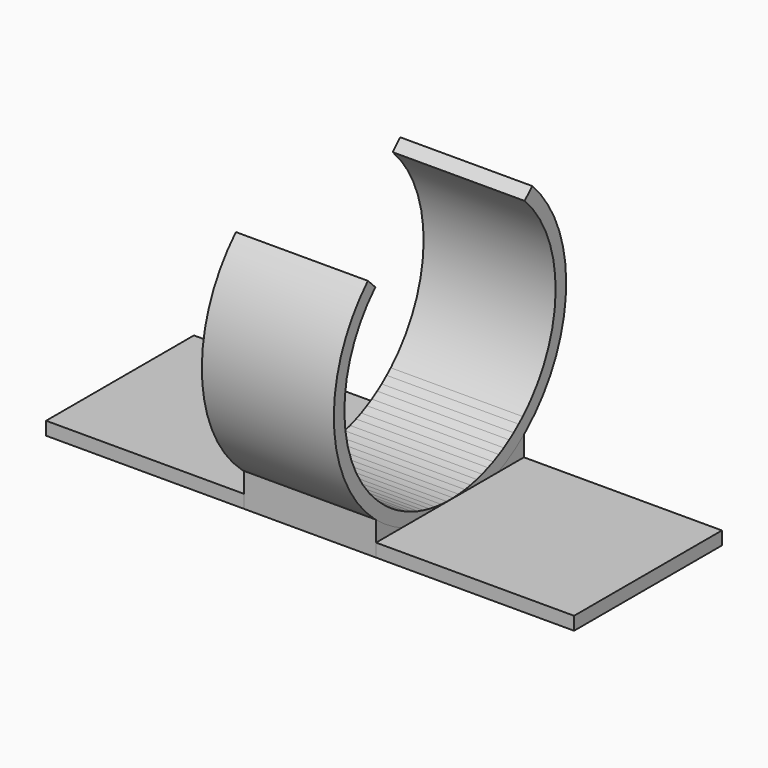
from build123d import *

# Parameters (mm, degrees)
BOX_W                   = 40
BOX_H                   = 14
BOX_DEPTH               = 1
CYLINDER001_R           = 10
CYLINDER001_DEPTH       = 10
CYLINDER001_PITCH_ANGLE = 90
BOX001_W                = 10
BOX001_H                = 14
BOX001_DEPTH            = 4
BOX002_W                = 10
BOX002_H                = 20
BOX002_DEPTH            = 10
CHAMFER_SIZE            = 9
CYLINDER_R              = 11
CYLINDER_DEPTH          = 10
CYLINDER_PITCH_ANGLE    = 90


with BuildPart() as cube:
    # Box → Box (new body)
    with BuildSketch(Plane.XY):
        with Locations((20, 7)):
            Rectangle(BOX_W, BOX_H)
    extrude(amount=BOX_DEPTH)


with BuildPart() as cylinder001:
    # Cylinder001 → Cylinder001 (new body)
    with BuildSketch(Plane.XY):
        Circle(CYLINDER001_R)
    extrude(amount=CYLINDER001_DEPTH)


with BuildPart() as cylinder001_1:
    # Cylinder001 pitch: moved
    add(cylinder001.part.rotate(Axis((0, 0, 0), (0, 1, 0)), CYLINDER001_PITCH_ANGLE))


with BuildPart() as cylinder001_2:
    # Cylinder001 placement: moved
    add(cylinder001_1.part.moved(Location((15, 7, 11))))


with BuildPart() as cut001:
    # Box001 → Box001 (new body)
    with BuildSketch(Plane(origin=(15, 0, 0), x_dir=(1, 0, 0), z_dir=(0, 0, 1))):
        with Locations((5, 7)):
            Rectangle(BOX001_W, BOX001_H)
    extrude(amount=BOX001_DEPTH)

    # Cut001: cut Cylinder001
    add(cylinder001_2.part, mode=Mode.SUBTRACT)


with BuildPart() as chamfer_body:
    # Box002 → Box002 (new body)
    with BuildSketch(Plane(origin=(15, -3, 20), x_dir=(1, 0, 0), z_dir=(0, 0, 1))):
        with Locations((5, 10)):
            Rectangle(BOX002_W, BOX002_H)
    extrude(amount=BOX002_DEPTH)

    # Chamfer
    chamfer_edges = [chamfer_body.edges().sort_by_distance(p)[0] for p in [
        (20, -3, 20),
        (20, 17, 20),
    ]]
    chamfer(chamfer_edges, length=CHAMFER_SIZE)


with BuildPart() as chamfer_body_1:
    # Chamfer placement: moved
    add(chamfer_body.part.moved(Location((0, 0, -8))))


with BuildPart() as cut002:
    # Cylinder → Cylinder (new body)
    with BuildSketch(Plane.XY):
        Circle(CYLINDER_R)
    extrude(amount=CYLINDER_DEPTH)


with BuildPart() as cut002_1:
    # Cylinder pitch: moved
    add(cut002.part.rotate(Axis((0, 0, 0), (0, 1, 0)), CYLINDER_PITCH_ANGLE))


with BuildPart() as cut002_2:
    # Cylinder placement: moved
    add(cut002_1.part.moved(Location((15, 7, 11))))

    # Cut: cut Cylinder001
    add(cylinder001_2.part, mode=Mode.SUBTRACT)

    # Cut002: cut Chamfer body
    add(chamfer_body_1.part, mode=Mode.SUBTRACT)


solid = Compound([cube.part, cut001.part, cut002_2.part])
